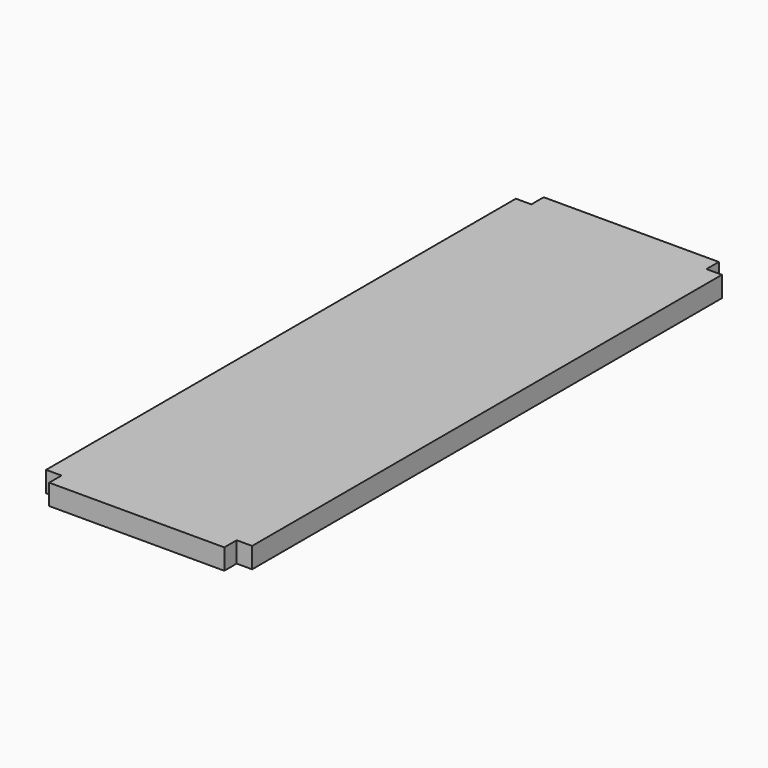
from build123d import *

# Parameters (mm, degrees)
F1_DEPTH = 50.8


with BuildPart() as f1:
    # F0 (on Top) → F1 (new body)
    with BuildSketch(Plane.XY):
        Polygon((-244.647597, -551.003222), (-244.647597, -589.103222), (187.152403, -589.103222), (187.152403, -551.003222), (225.252403, -551.003222), (225.252403, 896.796778), (187.152403, 896.796778), (187.152403, 934.896778), (-244.647597, 934.896778), (-244.647597, 896.796778), (-282.747597, 896.796778), (-282.747597, -551.003222), align=None)
    extrude(amount=-F1_DEPTH)


solid = f1.part
